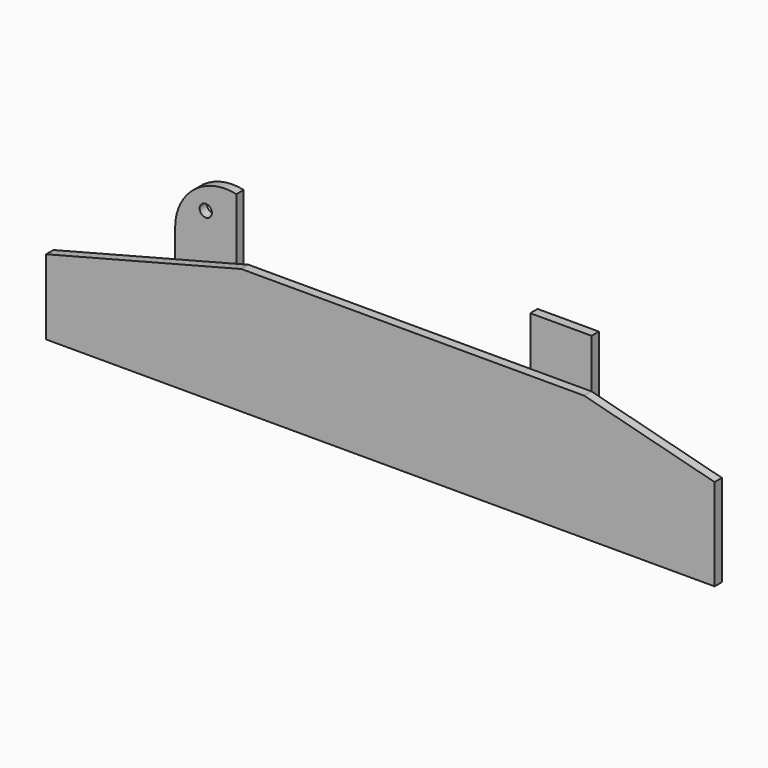
from build123d import *

# Parameters (mm, degrees)
F3_DEPTH = 19.05
F1_R     = 12.7
F4_DEPTH = 19.05
F2_W     = 127
F2_H     = 101.6
F2_H_2   = 260.35
F5_DEPTH = 19.05


with BuildPart() as f3:
    # F0 (on Front) → F3 (new body)
    with BuildSketch(Plane.XZ):
        Polygon((-678.356835, -30.721705), (-678.356835, -186.296705), (708.359913, -186.296705), (708.359913, 4.203295), (437.832026, 74.053295), (-273.367974, 74.053295), align=None)
    extrude(amount=F3_DEPTH)

    # F1 (on face) → F4 (join)
    with BuildSketch(Plane.XZ):
        with BuildLine():
            Line((-425.853448, 34.603653), (-298.853448, 67.459927))
            Line((-298.853448, 67.459927), (-298.853448, 194.703295))
            ThreePointArc((-298.853448, 194.703295), (-386.76919, 174.422972), (-425.853448, 93.103295))
            Line((-425.853448, 93.103295), (-425.853448, 34.603653))
        make_face()
        with Locations((-362.353448, 143.903295)):
            Circle(F1_R, mode=Mode.SUBTRACT)
        Polygon((-425.853448, -186.296705), (-298.853448, -186.296705), (-298.853448, 67.459927), (-425.853448, 34.603653), align=None)
    extrude(amount=-F4_DEPTH)

    # F2 (on face) → F5 (join)
    with BuildSketch(Plane.XZ):
        with Locations((374.332026, 124.853295)):
            Rectangle(F2_W, F2_H)
        with Locations((374.332026, -56.121705)):
            Rectangle(F2_W, F2_H_2)
    extrude(amount=-F5_DEPTH)


solid = f3.part
